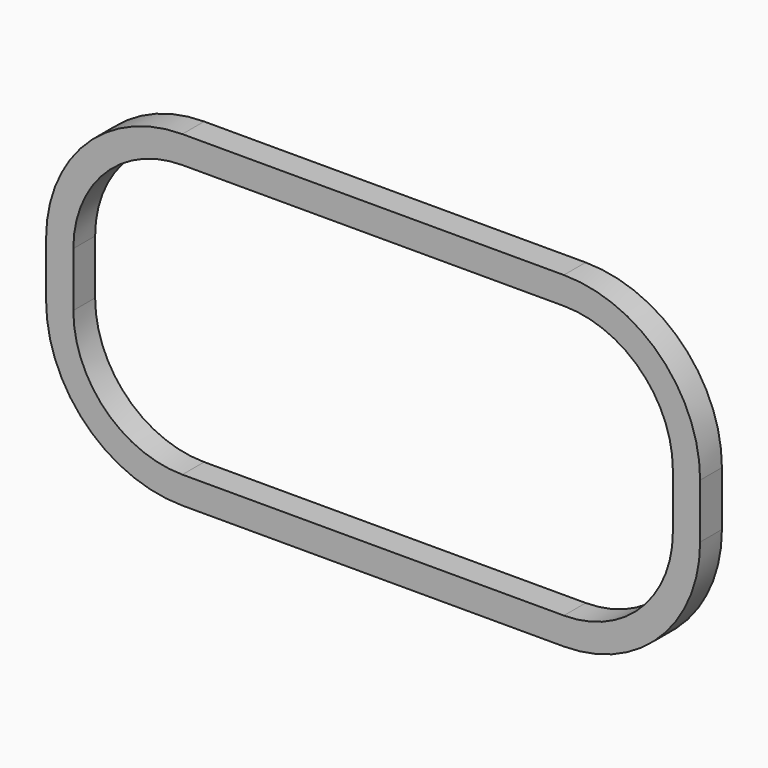
from build123d import *

# Parameters (mm, degrees)
F2_DEPTH = 25.4


with BuildPart() as f2:
    # F1 (on face) → F2 (new body)
    with BuildSketch(Plane.XZ):
        with BuildLine():
            Line((304.8, -25.4), (304.8, 25.4))
            ThreePointArc((304.8, 25.4), (267.602561, 115.202561), (177.8, 152.4))
            Line((177.8, 152.4), (-177.8, 152.4))
            ThreePointArc((-177.8, 152.4), (-267.602561, 115.202561), (-304.8, 25.4))
            Line((-304.8, 25.4), (-304.8, -25.4))
            ThreePointArc((-304.8, -25.4), (-267.602561, -115.202561), (-177.8, -152.4))
            Line((-177.8, -152.4), (177.8, -152.4))
            ThreePointArc((177.8, -152.4), (267.602561, -115.202561), (304.8, -25.4))
        make_face()
        with BuildLine():
            ThreePointArc((177.8, 127), (249.642049, 97.242049), (279.4, 25.4))
            Line((279.4, 25.4), (279.4, -25.4))
            ThreePointArc((279.4, -25.4), (249.642049, -97.242049), (177.8, -127))
            Line((177.8, -127), (-177.8, -127))
            ThreePointArc((-177.8, -127), (-249.642049, -97.242049), (-279.4, -25.4))
            Line((-279.4, -25.4), (-279.4, 25.4))
            ThreePointArc((-279.4, 25.4), (-249.642049, 97.242049), (-177.8, 127))
            Line((-177.8, 127), (177.8, 127))
        make_face(mode=Mode.SUBTRACT)
    extrude(amount=F2_DEPTH)


solid = f2.part
